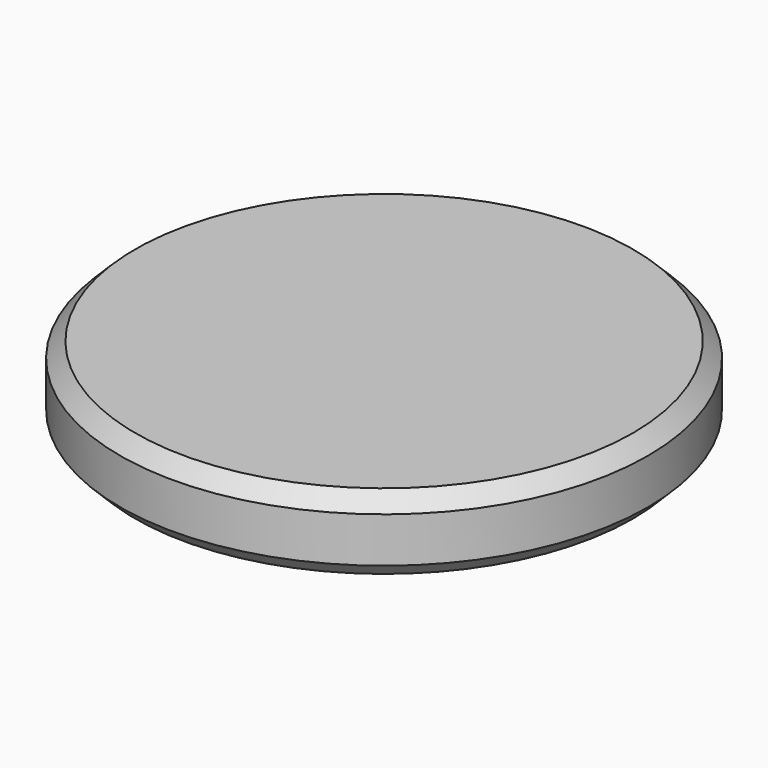
from build123d import *

# Parameters (mm, degrees)
F0_R     = 17.5
F0_R_2   = 5.05
F1_DEPTH = 4
F2_R     = 17.5
F3_DEPTH = 1
F4_SIZE  = 1
F5_SIZE  = 1


with BuildPart() as f1:
    # F0 (on Top) → F1 (new body)
    with BuildSketch(Plane.XY):
        Circle(F0_R)
        with Locations((-6.289302, -8.656482)):
            Circle(F0_R_2, mode=Mode.SUBTRACT)
        with Locations((6.289302, -8.656482)):
            Circle(F0_R_2, mode=Mode.SUBTRACT)
        with Locations((-10.176305, 3.306482)):
            Circle(F0_R_2, mode=Mode.SUBTRACT)
        Circle(F0_R_2, mode=Mode.SUBTRACT)
        with Locations((10.176305, 3.306482)):
            Circle(F0_R_2, mode=Mode.SUBTRACT)
        with Locations((0, 10.7)):
            Circle(F0_R_2, mode=Mode.SUBTRACT)
    extrude(amount=F1_DEPTH)

    # F2 (on face) → F3 (join)
    with BuildSketch(Plane.XY.offset(4)):
        Circle(F2_R)
    extrude(amount=F3_DEPTH)

    # F4
    f4_edges = [f1.edges().sort_by_distance(p)[0] for p in [
        (-17.5, 0, 0),
    ]]
    chamfer(f4_edges, length=F4_SIZE)

    # F5
    f5_edges = [f1.edges().sort_by_distance(p)[0] for p in [
        (-17.5, 0, 5),
    ]]
    chamfer(f5_edges, length=F5_SIZE)


solid = f1.part
